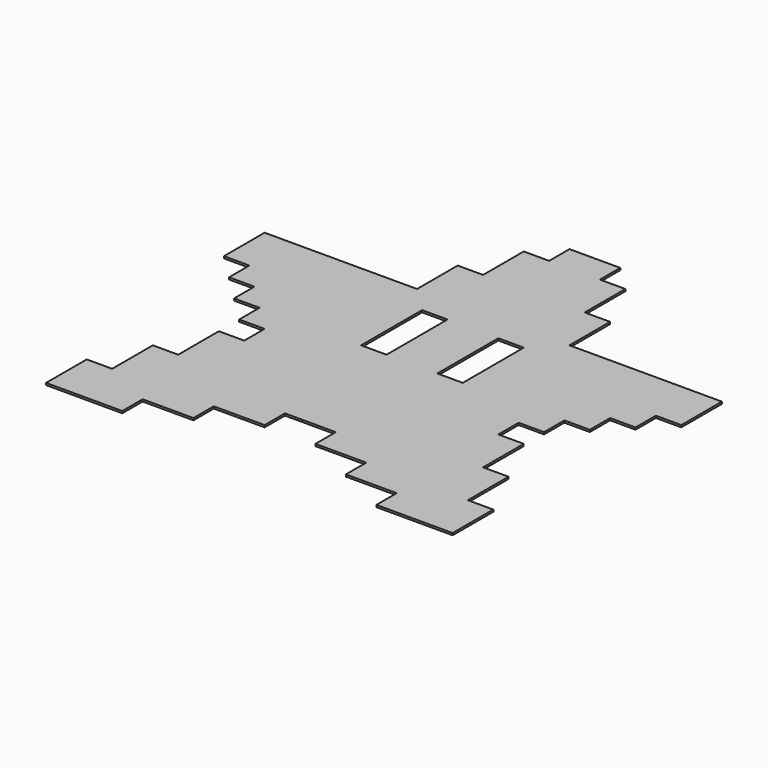
from build123d import *

# Parameters (mm, degrees)
F0_W     = 7.5
F0_H     = 22.5
F1_DEPTH = 0.6


with BuildPart() as f1:
    # F0 (on Top) → F1 (new body)
    with BuildSketch(Plane.XY):
        Polygon((7.5, 37.5), (0, 37.5), (-7.5, 37.5), (-7.5, 30), (-15, 30), (-15, 15), (-22.5, 15), (-22.5, 0), (-67.5, 0), (-67.5, -15), (-60, -15), (-60, -22.5), (-52.5, -22.5), (-52.5, -30), (-45, -30), (-45, -37.5), (-37.5, -37.5), (-37.5, -45), (-45, -45), (-45, -60), (-52.5, -60), (-52.5, -75), (-60, -75), (-60, -90), (-37.5, -90), (-37.5, -82.5), (-22.5, -82.5), (-22.5, -75), (-7.5, -75), (-7.5, -67.5), (0, -67.5), (7.5, -67.5), (7.5, -75), (22.5, -75), (22.5, -82.5), (37.5, -82.5), (37.5, -90), (60, -90), (60, -75), (52.5, -75), (52.5, -60), (45, -60), (45, -45), (37.5, -45), (37.5, -37.5), (45, -37.5), (45, -30), (52.5, -30), (52.5, -22.5), (60, -22.5), (60, -15), (67.5, -15), (67.5, 0), (22.5, 0), (22.5, 15), (15, 15), (15, 30), (7.5, 30), align=None)
        with Locations((-11.25, -18.75)):
            Rectangle(F0_W, F0_H, mode=Mode.SUBTRACT)
        with Locations((11.25, -18.75)):
            Rectangle(F0_W, F0_H, mode=Mode.SUBTRACT)
    extrude(amount=F1_DEPTH)


solid = f1.part
